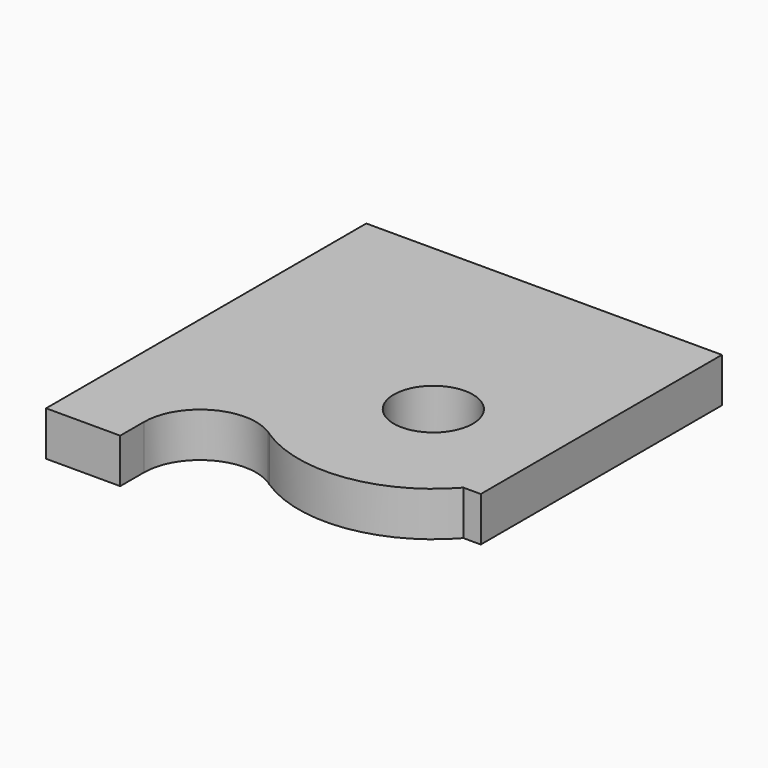
from build123d import *

# Parameters (mm, degrees)
F0_R     = 2.032
F1_DEPTH = 2.286


with BuildPart() as f1:
    # F0 (on Top) → F1 (new body)
    with BuildSketch(Plane.XY):
        with BuildLine():
            Line((34.175198, -8.878299), (34.175198, 2.043701))
            Line((34.175198, 2.043701), (15.893778, 2.043701))
            Line((15.893778, 2.043701), (15.893778, -13.450299))
            Line((15.893778, -13.450299), (15.893778, -18.530299))
            Line((15.893778, -18.530299), (19.703778, -18.530299))
            Line((19.703778, -18.530299), (19.703778, -17.006299))
            ThreePointArc((19.703778, -17.006299), (21.185336, -14.485536), (24.108456, -14.553586))
            ThreePointArc((24.108456, -14.553586), (24.203978, -14.6154), (24.296988, -14.680933))
            ThreePointArc((24.296988, -14.680933), (29.019072, -15.740683), (33.282321, -13.450299))
            Line((33.282321, -13.450299), (34.175198, -13.450299))
            Line((34.175198, -13.450299), (34.175198, -8.878299))
        make_face()
        with Locations((28.079198, -8.878299)):
            Circle(F0_R, mode=Mode.SUBTRACT)
    extrude(amount=F1_DEPTH)


solid = f1.part
